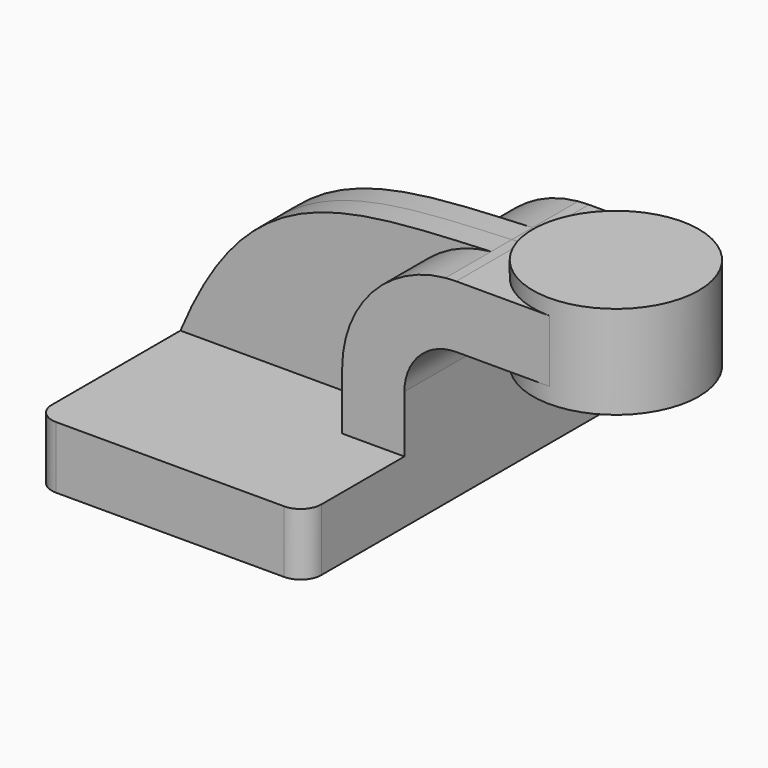
from build123d import *

# Parameters (mm, degrees)
F1_DEPTH = 63.5
F0_W     = 25.4
F0_H     = 19.05
F2_DEPTH = 25.4
F0_H_2   = 4.7498
F0_H_3   = 4.7752
F4_DEPTH = 7.9375
F5_R     = 6.35


with BuildPart() as f1:
    # F0 (on Front) → F1 (new body, symmetric)
    with BuildSketch(Plane.XZ):
        Polygon((-41.275, 9.525), (-41.275, -9.525), (41.275, -9.525), (41.275, 9.525), (22.225, 9.525), align=None)
    extrude(amount=F1_DEPTH, both=True)

    # F0 (on Front) → F2 (join, symmetric)
    with BuildSketch(Plane.XZ):
        with BuildLine():
            Line((22.225, 9.525), (41.275, 9.525))
            Line((41.275, 9.525), (41.275, 27.0002))
            ThreePointArc((41.275, 27.0002), (45.9246798487, 38.2255201513), (57.15, 42.8752))
            Line((57.15, 42.8752), (60.325, 42.8752))
            Line((60.325, 42.8752), (60.325, 61.9252))
            Line((60.325, 61.9252), (57.15, 61.9252))
            add(Edge.make_bspline(
                [(53.8635781544, 61.7702310102), (54.9491847021, 61.8205950904), (56.0446147523, 61.8720257258), (57.15, 61.9252)],
                knots=[108.9349794531, 108.9349794531, 108.9349794531, 108.9349794531, 111.5045361635, 111.5045361635, 111.5045361635, 111.5045361635], degree=3))
            ThreePointArc((53.8635781544, 61.7702310102), (31.3184891271, 50.5052775583), (22.225, 27.0002))
            Line((22.225, 27.0002), (22.225, 9.525))
        make_face()
        with Locations((73.025, 52.4002)):
            Rectangle(F0_W, F0_H)
    extrude(amount=F2_DEPTH, both=True)

    # F0 (on Front) → F3 (revolve)
    with BuildSketch(Plane.XZ):
        with Locations((98.425, 64.3001)):
            Rectangle(F0_W, F0_H_2)
        with Locations((98.425, 40.4876)):
            Rectangle(F0_W, F0_H_3)
        with Locations((98.425, 52.4002)):
            Rectangle(F0_W, F0_H)
    revolve(axis=Axis((85.725, 0, 52.3875), (0, 0, 1)))

    # F0 (on Front) → F4 (join, symmetric)
    with BuildSketch(Plane.XZ):
        with BuildLine():
            add(Edge.make_bspline(
                [(-41.275, 9.525), (-20.5281487987, 59.4168244671), (7.8398704502, 59.6350728281), (53.8635781544, 61.7702310102)],
                knots=[0, 0, 0, 0, 108.9349794531, 108.9349794531, 108.9349794531, 108.9349794531], degree=3))
            Line((-41.275, 9.525), (22.225, 9.525))
            Line((22.225, 9.525), (22.225, 27.0002))
            ThreePointArc((22.225, 27.0002), (31.3184891271, 50.5052775583), (53.8635781544, 61.7702310102))
        make_face()
    extrude(amount=F4_DEPTH, both=True)

    # F5
    f5_edges = [f1.edges().sort_by_distance(p)[0] for p in [
        (41.275, -63.5, 0),
        (-41.275, -63.5, 0),
        (41.275, 63.5, 0),
        (-41.275, 63.5, 0),
    ]]
    fillet(f5_edges, radius=F5_R)


solid = f1.part
